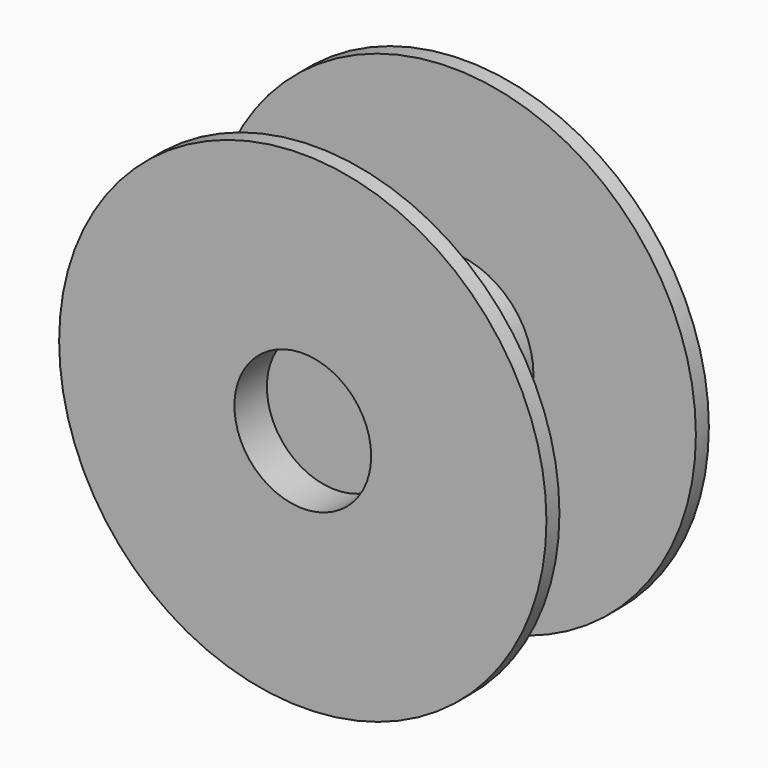
from build123d import *

# Parameters (mm, degrees)
F0_R          = 38.1
F1_DEPTH      = 2.54
F2_R          = 12.7
F3_DEPTH      = 29.21
F4_R          = 10.6934
F5_DEPTH      = 6.35
F6_R          = 38.1
F7_DEPTH      = 2.54
F8_R          = 3.1115
F9_DEPTH      = 25.4
F9_DEPTH_BACK = 25.4
F10_SIZE      = 3.81


with BuildPart() as f1:
    # F0 (on Front) → F1 (new body)
    with BuildSketch(Plane.XZ):
        Circle(F0_R)
    extrude(amount=-F1_DEPTH)

    # F2 (on Front) → F3 (join)
    with BuildSketch(Plane.XZ):
        Circle(F2_R)
    extrude(amount=-F3_DEPTH)

    # F4 (on Front) → F5 (cut)
    with BuildSketch(Plane.XZ):
        Circle(F4_R)
    extrude(amount=-F5_DEPTH, mode=Mode.SUBTRACT)

    # F6 (on face) → F7 (join)
    with BuildSketch(Plane(origin=(0, 29.21, 0), x_dir=(-1, 0, 0), z_dir=(0, 1, 0))):
        Circle(F6_R)
    extrude(amount=F7_DEPTH)

    # F8 (on Right) → F9 (cut, two sides)
    with BuildSketch(Plane.YZ) as f9_sk:
        with Locations((14.287057, 0)):
            Circle(F8_R)
    extrude(amount=F9_DEPTH, mode=Mode.SUBTRACT)
    extrude(f9_sk.sketch, amount=-F9_DEPTH_BACK, mode=Mode.SUBTRACT)

    # F10
    f10_edges = [f1.edges().sort_by_distance(p)[0] for p in [
        (-12.7, 2.54, 0),
    ]]
    chamfer(f10_edges, length=F10_SIZE)


solid = f1.part
